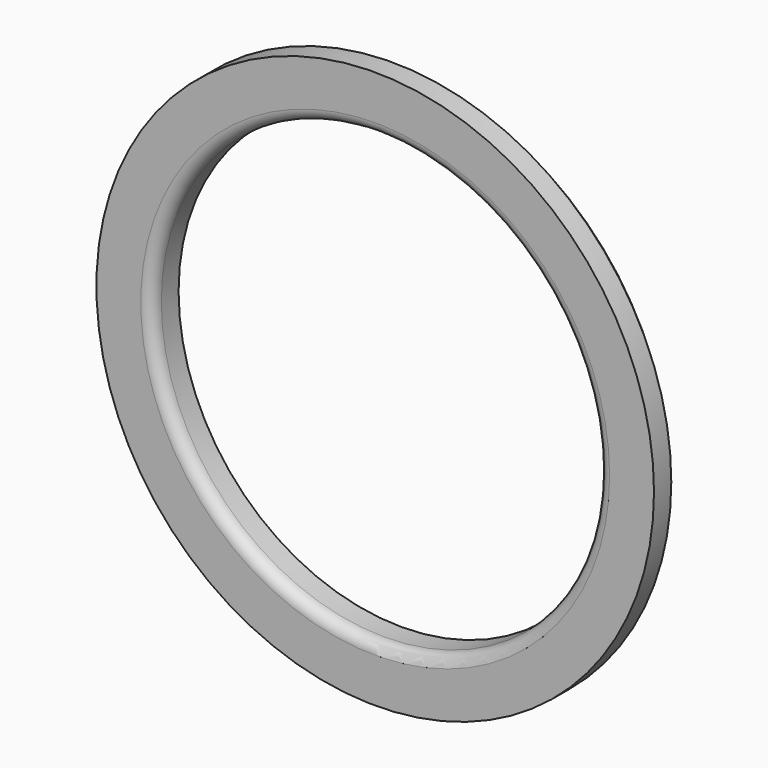
from build123d import *

# Parameters (mm, degrees)
F0_R     = 12.25
F0_R_2   = 9.8
F1_DEPTH = 1.45
F2_SIZE  = 0.5
F3_R     = 0.5


with BuildPart() as f1:
    # F0 (on Front) → F1 (new body)
    with BuildSketch(Plane.XZ):
        Circle(F0_R)
        Circle(F0_R_2, mode=Mode.SUBTRACT)
    extrude(amount=F1_DEPTH)

    # F2
    f2_edges = [f1.edges().sort_by_distance(p)[0] for p in [
        (-12.25, 0, 0),
    ]]
    chamfer(f2_edges, length=F2_SIZE)

    # F3
    f3_edges = [f1.edges().sort_by_distance(p)[0] for p in [
        (-9.8, -1.45, 0),
    ]]
    fillet(f3_edges, radius=F3_R)


solid = f1.part
